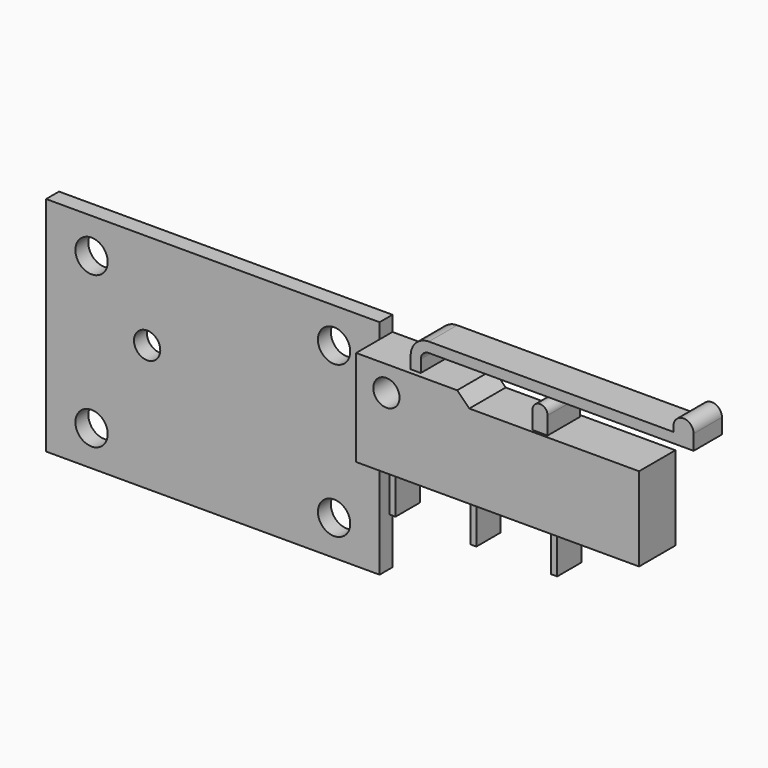
from build123d import *

# Parameters (mm, degrees)
F0_R      = 1.3
F1_DEPTH  = 2.25
F3_DEPTH  = 1.75
F5_DEPTH  = 2
F6_W      = 0.6
F6_H      = 3
F7_DEPTH  = 4
F8_W      = 33
F8_H      = 22
F8_R      = 1.6
F9_DEPTH  = 1.6
F10_R     = 1.3
F11_DEPTH = 1.601


with BuildPart() as f1:
    # F0 (on Front) → F1 (new body, symmetric)
    with BuildSketch(Plane.XZ):
        Polygon((11.2, 8.3), (10, 9.5), (0, 9.5), (0, 0), (28, 0), (28, 8.3), align=None)
        with Locations((3, 7)):
            Circle(F0_R, mode=Mode.SUBTRACT)
    extrude(amount=F1_DEPTH, both=True)

    # F2 (on Front) → F3 (join, symmetric)
    with BuildSketch(Plane.XZ):
        with BuildLine():
            Line((5, 10.7), (5, 9.5))
            Line((5, 9.5), (6, 9.5))
            Line((6, 9.5), (6, 10.7))
            ThreePointArc((6, 10.7), (6.234315, 11.265685), (6.8, 11.5))
            Line((6.8, 11.5), (33, 11.5))
            Line((33, 11.5), (33, 13))
            ThreePointArc((33, 13), (32, 14), (31, 13))
            Line((31, 13), (31, 12.5))
            Line((31, 12.5), (6.8, 12.5))
            ThreePointArc((6.8, 12.5), (5.527208, 11.972792), (5, 10.7))
        make_face()
    extrude(amount=F3_DEPTH, both=True)

    # F4 (on Front) → F5 (join, symmetric)
    with BuildSketch(Plane.XZ):
        with BuildLine():
            Line((18.75, 8.3), (18.75, 10.05))
            ThreePointArc((18.75, 10.05), (18, 10.8), (17.25, 10.05))
            Line((17.25, 10.05), (17.25, 8.3))
            Line((17.25, 8.3), (18.75, 8.3))
        make_face()
    extrude(amount=F5_DEPTH, both=True)

    # F6 (on Top) → F7 (join)
    with BuildSketch(Plane.XY):
        with Locations((19, 0)):
            Rectangle(F6_W, F6_H)
        with Locations((11, 0)):
            Rectangle(F6_W, F6_H)
        with Locations((3, 0)):
            Rectangle(F6_W, F6_H)
    extrude(amount=-F7_DEPTH)


with BuildPart() as f9:
    # F8 (on face) → F9 (new body)
    with BuildSketch(Plane(origin=(0, 2.25, 0), x_dir=(-1, 0, 0), z_dir=(0, 1, 0))):
        with Locations((16.5, 0)):
            Rectangle(F8_W, F8_H)
        with Locations((4.5, -7.5)):
            Circle(F8_R, mode=Mode.SUBTRACT)
        with Locations((28.5, -7.5)):
            Circle(F8_R, mode=Mode.SUBTRACT)
        with Locations((4.5, 7.5)):
            Circle(F8_R, mode=Mode.SUBTRACT)
        with Locations((28.5, 7.5)):
            Circle(F8_R, mode=Mode.SUBTRACT)
    extrude(amount=-F9_DEPTH)

    # F10 (on face) → F11 (cut, through all)
    with BuildSketch(Plane.XZ.offset(-0.65)):
        with Locations((-23, 1.5)):
            Circle(F10_R)
    extrude(amount=-F11_DEPTH, mode=Mode.SUBTRACT)


solid = Compound([f1.part, f9.part])
